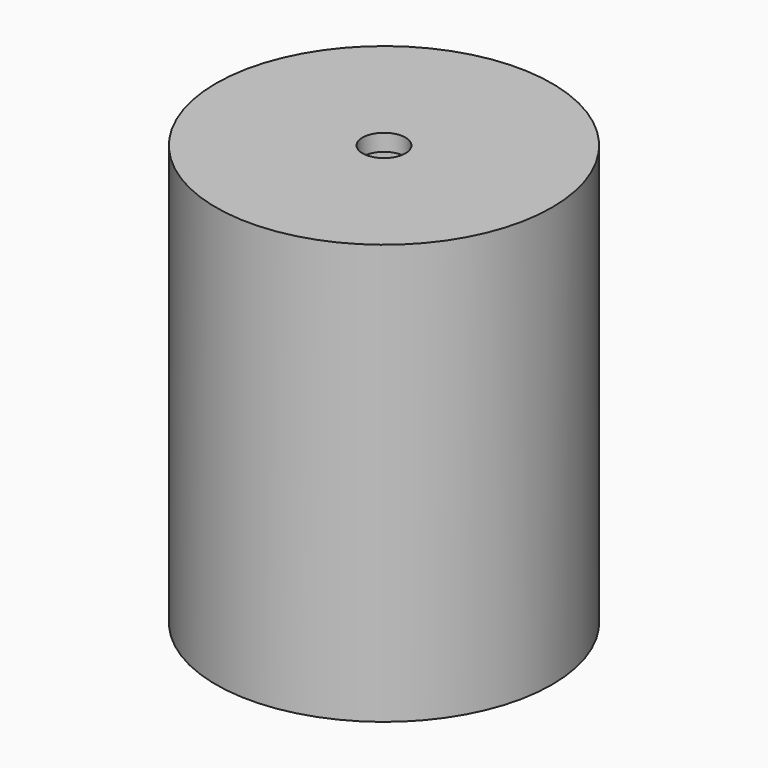
from build123d import *

# Parameters (mm, degrees)
F0_W = 20
F0_H = 50
F2_T = -2
F4_D = 5.1054


with BuildPart() as f1:
    # F0 (on Front) → F1 (revolve)
    with BuildSketch(Plane.XZ):
        Rectangle(F0_W, F0_H)
    revolve(axis=Axis((10, 0, 0), (0, 0, 1)))

    # F2 (hollow: no face is removed)
    offset(amount=F2_T, mode=Mode.SUBTRACT)

    # F4 (through all)
    with Locations(Plane.XY.offset(25)):
        with Locations((10, 0)):
            Hole(F4_D / 2)


solid = f1.part
